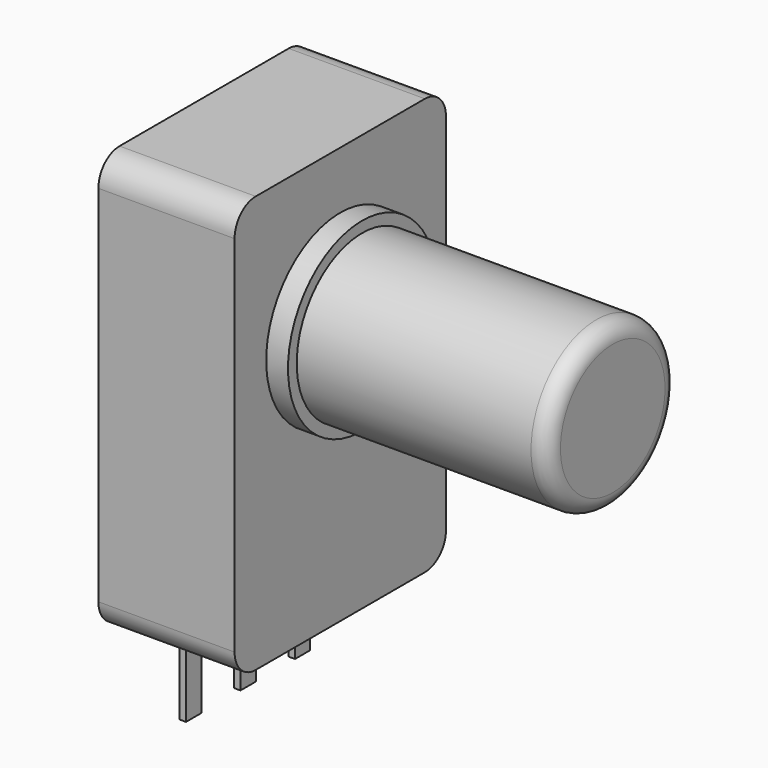
from build123d import *

# Parameters (mm, degrees)
SKETCH001_R       = 3.4
PAD001_DEPTH      = 0.8
SKETCH003_W       = 0.233334
SKETCH003_H       = 0.7
PAD002_DEPTH      = 11.625
PAD002_DEPTH_BACK = 3
SKETCH004_R       = 3
PAD003_DEPTH      = 9.2
FILLET_R          = 0.6
SKETCH_W          = 9.7
SKETCH_H          = 15.3
PAD_DEPTH         = 5
FILLET001_R       = 0.97


with BuildPart() as pad001:
    # Sketch001 → Pad001 (new body)
    with BuildSketch(Plane.YZ.offset(4.3)):
        with Locations((2.5, 10)):
            Circle(SKETCH001_R)
    extrude(amount=-PAD001_DEPTH)


with BuildPart() as pad002:
    # Sketch003 → Pad002 (new body, two sides)
    with BuildSketch(Plane(origin=(0, 0, 0), x_dir=(-1, 0, 0), z_dir=(0, 0, 1))) as pad002_sk:
        Rectangle(SKETCH003_W, SKETCH003_H)
        with Locations((0, -2.5)):
            Rectangle(SKETCH003_W, SKETCH003_H)
        with Locations((0, -5)):
            Rectangle(SKETCH003_W, SKETCH003_H)
    extrude(amount=PAD002_DEPTH)
    extrude(pad002_sk.sketch, amount=-PAD002_DEPTH_BACK)


with BuildPart() as fillet_body:
    # Sketch004 → Pad003 (new body)
    with BuildSketch(Plane.YZ.offset(4.3)):
        with Locations((2.5, 10)):
            Circle(SKETCH004_R)
    extrude(amount=PAD003_DEPTH)

    # Fillet
    fillet_edges = [fillet_body.edges().sort_by_distance(p)[0] for p in [
        (13.5, -0.5, 10),
    ]]
    fillet(fillet_edges, radius=FILLET_R)


with BuildPart() as fillet001:
    # Sketch → Pad (new body)
    with BuildSketch(Plane.YZ.offset(-1.5)):
        with Locations((2.5, 7.85)):
            Rectangle(SKETCH_W, SKETCH_H)
    extrude(amount=PAD_DEPTH)

    # Fillet001
    fillet001_edges = [fillet001.edges().sort_by_distance(p)[0] for p in [
        (1, -2.35, 15.5),
        (1, 7.35, 15.5),
        (1, -2.35, 0.2),
        (1, 7.35, 0.2),
    ]]
    fillet(fillet001_edges, radius=FILLET001_R)


solid = Compound([pad001.part, pad002.part, fillet_body.part, fillet001.part])
